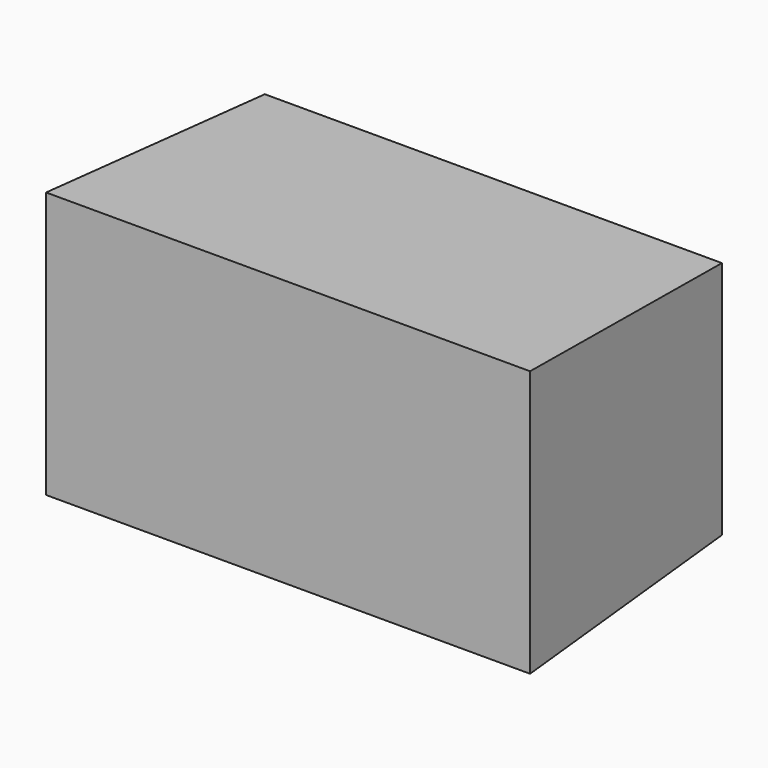
from build123d import *

# Parameters (mm, degrees)
F0_W     = 45.2441680245
F0_H     = 23.6996114254
F1_DEPTH = 25.4
F1_TAPER = -3


with BuildPart() as f1:
    # F0 (on Front) → F1 (new body)
    with BuildSketch(Plane.XZ):
        with Locations((-28.9963728283, 48.9643886685)):
            Rectangle(F0_W, F0_H)
    extrude(amount=F1_DEPTH, taper=F1_TAPER)


solid = f1.part
